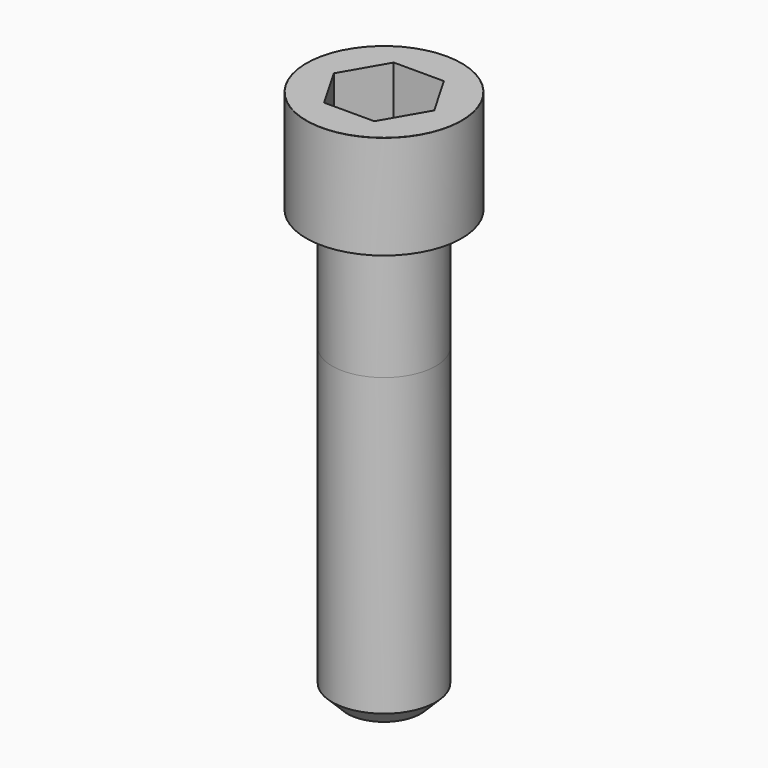
from build123d import *

# Parameters (mm, degrees)
POCKET_DEPTH = 10.07


with BuildPart() as part:
    # Sketch → Revolve (revolve)
    with BuildSketch(Plane.YZ):
        with BuildLine():
            Line((5.999, 0), (9, 0))
            Line((9, 0), (9, 11.97229))
            ThreePointArc((9, 11.97229), (8.991884, 11.991884), (8.97229, 12))
            Line((8.97229, 12), (0, 12))
            Line((0, -50), (0, 12))
            Line((4.25, -50), (0, -50))
            Line((6, -48.25), (4.25, -50))
            Line((6, -14), (6, -48.25))
            Line((5.999, 0), (6, -14))
        make_face()
    revolve(axis=Axis((0, 0, 0), (0, 0, 1)))

    # Sketch001 → Pocket (cut)
    with BuildSketch(Plane.XY.offset(12)):
        Polygon((5.813917, 0), (2.906959, 5.035), (-2.906959, 5.035), (-5.813917, 0), (-2.906959, -5.035), (2.906959, -5.035), align=None)
    extrude(amount=-POCKET_DEPTH, mode=Mode.SUBTRACT)


solid = part.part
